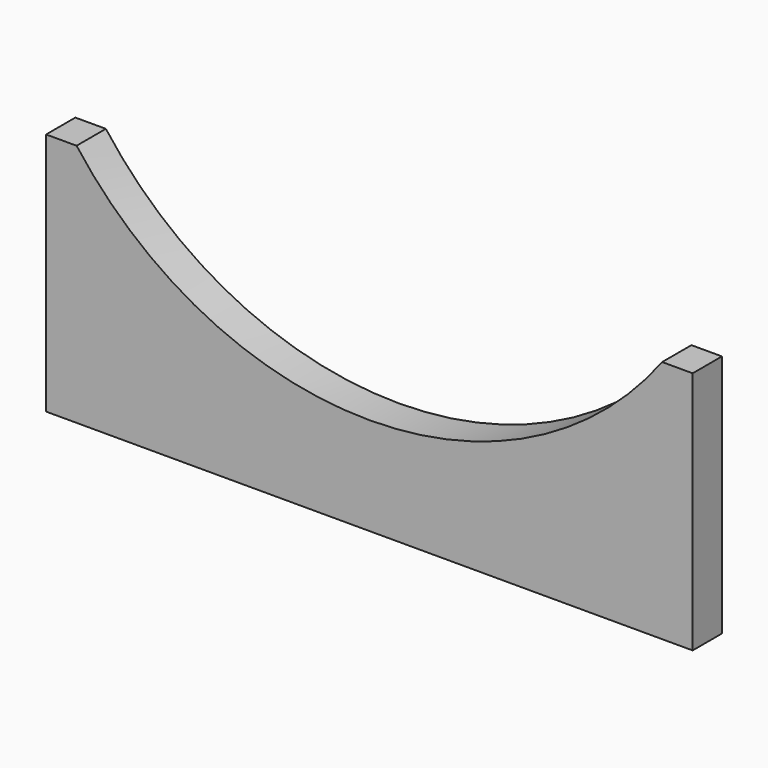
from build123d import *

# Parameters (mm, degrees)
F1_DEPTH = 3


with BuildPart() as f1:
    # F0 (on Front) → F1 (new body, symmetric)
    with BuildSketch(Plane.XZ):
        with BuildLine():
            Line((0, 40), (0, 0))
            Line((0, 0), (106, 0))
            Line((106, 0), (106, 40))
            Line((106, 40), (101, 40))
            ThreePointArc((101, 40), (53, 16), (5, 40))
            Line((5, 40), (0, 40))
        make_face()
    extrude(amount=F1_DEPTH, both=True)


solid = f1.part
